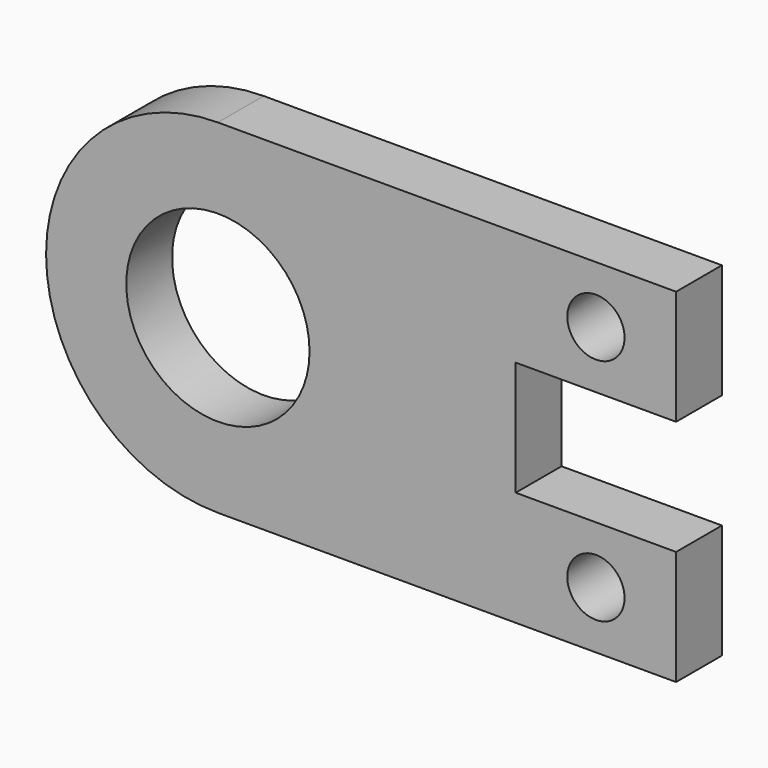
from build123d import *

# Parameters (mm, degrees)
F0_R     = 12.5
F0_R_2   = 40
F1_DEPTH = 25


with BuildPart() as f1:
    # F0 (on Front) → F1 (new body)
    with BuildSketch(Plane.XZ):
        with BuildLine():
            ThreePointArc((0, 75), (53.033009, 53.033009), (75, 0))
            ThreePointArc((75, 0), (53.033009, -53.033009), (0, -75))
            Line((0, -75), (200, -75))
            Line((200, -75), (200, -25))
            Line((200, -25), (130, -25))
            Line((130, -25), (130, 25))
            Line((130, 25), (200, 25))
            Line((200, 25), (200, 75))
            Line((200, 75), (0, 75))
        make_face()
        with Locations((165, -50)):
            Circle(F0_R, mode=Mode.SUBTRACT)
        with Locations((165, 50)):
            Circle(F0_R, mode=Mode.SUBTRACT)
        with BuildLine():
            ThreePointArc((0, -75), (53.033009, -53.033009), (75, 0))
            ThreePointArc((75, 0), (53.033009, 53.033009), (0, 75))
            ThreePointArc((0, 75), (-75, 0), (0, -75))
        make_face()
        Circle(F0_R_2, mode=Mode.SUBTRACT)
    extrude(amount=F1_DEPTH)


solid = f1.part
